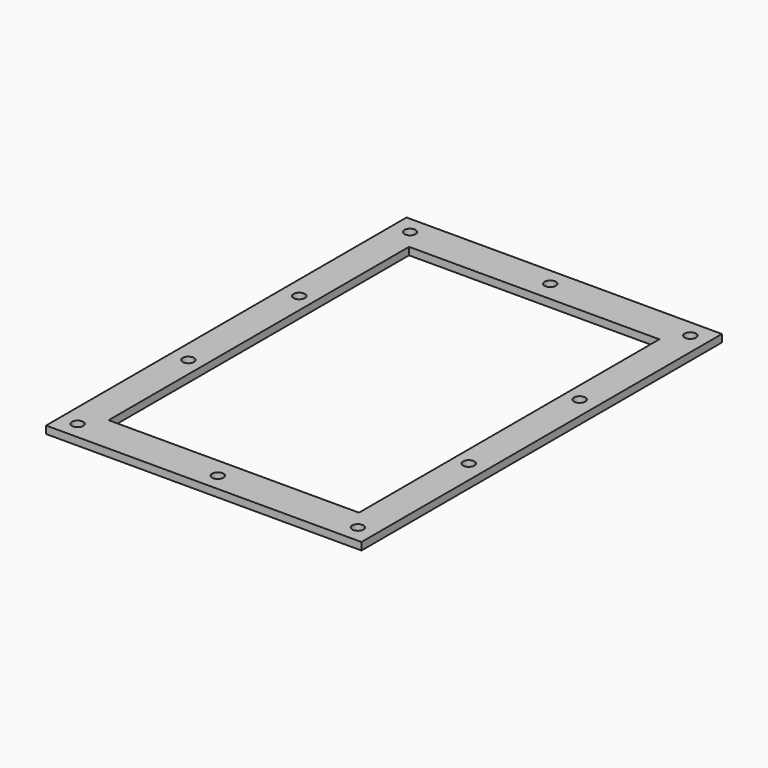
from build123d import *

# Parameters (mm, degrees)
F0_W     = 63
F0_H     = 90
F0_W_2   = 50
F0_H_2   = 75
F1_DEPTH = 1.5
F2_R     = 1.1303
F3_DEPTH = 25


with BuildPart() as f1:
    # F0 (on Top) → F1 (new body)
    with BuildSketch(Plane.XY):
        Rectangle(F0_W, F0_H)
        Rectangle(F0_W_2, F0_H_2, mode=Mode.SUBTRACT)
    extrude(amount=F1_DEPTH)

    # F2 (on face) → F3 (cut)
    with BuildSketch(Plane.XY.offset(1.5)):
        with Locations((0, 41.5)):
            Circle(F2_R)
        with Locations((28, 41.5)):
            Circle(F2_R)
        with Locations((28, -13.833333)):
            Circle(F2_R)
        with Locations((28, -41.5)):
            Circle(F2_R)
        with Locations((0, -41.5)):
            Circle(F2_R)
        with Locations((-28, -41.5)):
            Circle(F2_R)
        with Locations((-28, -13.833333)):
            Circle(F2_R)
        with Locations((-28, 13.833333)):
            Circle(F2_R)
        with Locations((-28, 41.5)):
            Circle(F2_R)
        with Locations((28, 13.833333)):
            Circle(F2_R)
    extrude(amount=-F3_DEPTH, mode=Mode.SUBTRACT)


solid = f1.part
